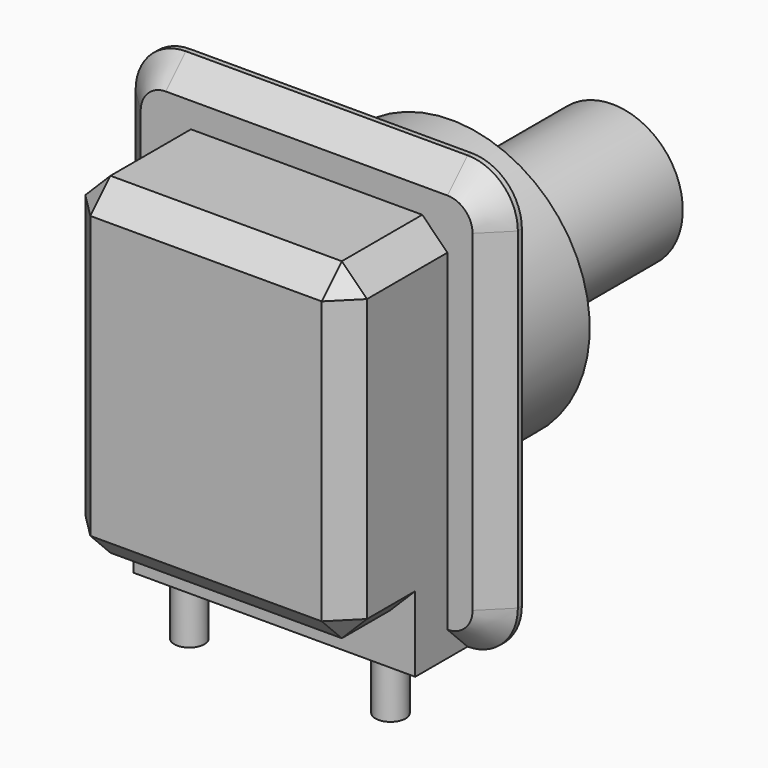
from build123d import *

# Parameters (mm, degrees)
F1_DEPTH  = 6
F2_R      = 27.5
F3_DEPTH  = 30
F4_R      = 14
F5_DEPTH  = 40
F6_W      = 56
F6_H      = 10
F7_DEPTH  = 8
F8_R      = 3
F9_DEPTH  = 10.5
F10_W     = 56
F10_H     = 66
F11_DEPTH = 25
F12_SIZE  = 5


with BuildPart() as f1:
    # F0 (on Front) → F1 (new body)
    with BuildSketch(Plane.XZ):
        with BuildLine():
            ThreePointArc((38, 33), (35.0710678119, 40.0710678119), (28, 43))
            Line((28, 43), (-28, 43))
            ThreePointArc((-28, 43), (-35.0710678119, 40.0710678119), (-38, 33))
            Line((-38, 33), (-38, -33))
            ThreePointArc((-38, -33), (-35.0710678119, -40.0710678119), (-28, -43))
            Line((-28, -43), (28, -43))
            ThreePointArc((28, -43), (35.0710678119, -40.0710678119), (38, -33))
            Line((38, -33), (38, 33))
        make_face()
    extrude(amount=F1_DEPTH)

    # F2 (on face) → F3 (join)
    with BuildSketch(Plane(origin=(0, 0, 0), x_dir=(-1, 0, 0), z_dir=(0, 1, 0))):
        Circle(F2_R)
    extrude(amount=F3_DEPTH)

    # F4 (on face) → F5 (join)
    with BuildSketch(Plane(origin=(0, 30, 0), x_dir=(-1, 0, 0), z_dir=(0, 1, 0))):
        Circle(F4_R)
    extrude(amount=F5_DEPTH)

    # F6 (on face) → F7 (join)
    with BuildSketch(Plane.XZ.offset(6)):
        with Locations((0, -38)):
            Rectangle(F6_W, F6_H)
    extrude(amount=F7_DEPTH)

    # F8 (on face) → F9 (join)
    with BuildSketch(Plane(origin=(0, 0, -43), x_dir=(1, 0, 0), z_dir=(0, 0, -1))):
        with Locations((-20, 10.148444213)):
            Circle(F8_R)
        with Locations((20, 10.148444213)):
            Circle(F8_R)
    extrude(amount=F9_DEPTH)

    # F10 (on face) → F11 (join)
    with BuildSketch(Plane.XZ.offset(6)):
        Rectangle(F10_W, F10_H)
    extrude(amount=F11_DEPTH)

    # F12
    f12_edges = [f1.edges().sort_by_distance(p)[0] for p in [
        (0, -31, 33),
        (28, -31, 0),
        (-28, -31, 0),
        (-28, -18.5, 33),
        (28, -18.5, 33),
        (28, -22.5, -33),
        (0, -31, -33),
        (-28, -22.5, -33),
        (0, -6, 43),
    ]]
    chamfer(f12_edges, length=F12_SIZE)


solid = f1.part
